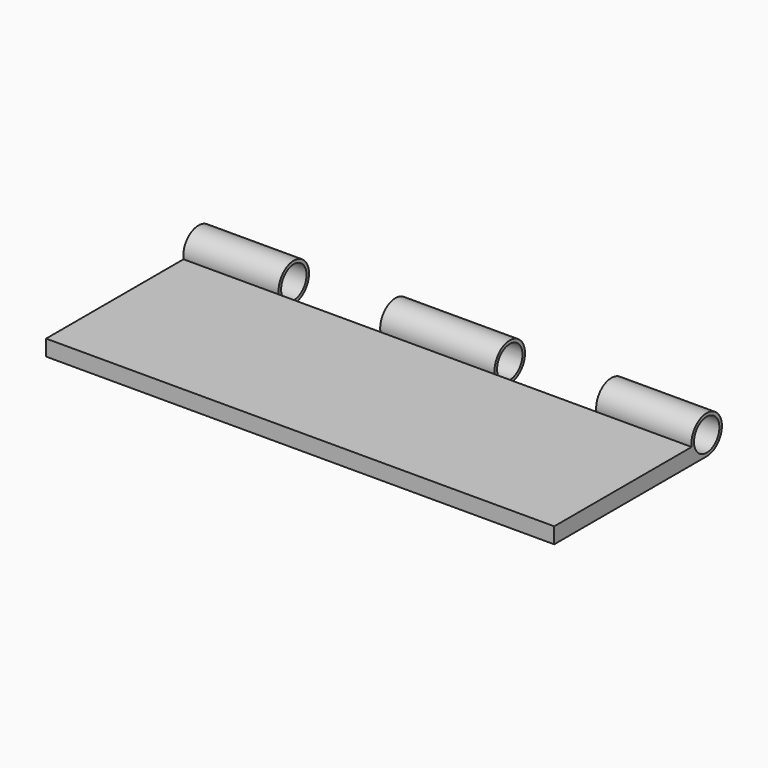
from build123d import *

# Parameters (mm, degrees)
F0_W     = 101.6
F0_H     = 38.1
F1_DEPTH = 3.175
F3_DEPTH = 254
F2_R     = 3.81
F2_R_2   = 3.175
F4_DEPTH = 101.6
F5_START = -19.05
F5_DEPTH = 20.32
F6_START = -62.23
F6_DEPTH = 20.32


with BuildPart() as f1:
    # F0 (on Top) → F1 (new body)
    with BuildSketch(Plane.XY):
        with Locations((-50.8, -19.05)):
            Rectangle(F0_W, F0_H)
    extrude(amount=F1_DEPTH)

    # F2 (on face) → F3 (cut)
    with BuildSketch(Plane(origin=(-101.6, 0, 0), x_dir=(0, -1, 0), z_dir=(-1, 0, 0))):
        with BuildLine():
            ThreePointArc((3.7567106623, 3.175), (3.7966542918, 3.4913839483), (3.81, 3.81))
            ThreePointArc((3.81, 3.81), (-2.6940768363, 6.5040768363), (0, 0))
            Line((0, 0), (0, 0.635))
            ThreePointArc((0, 0.635), (-2.2450640303, 6.0550640303), (3.175, 3.81))
            ThreePointArc((3.175, 3.81), (3.1589222858, 3.4908840456), (3.1108519733, 3.175))
            Line((3.1108519733, 3.175), (3.7567106623, 3.175))
        make_face()
        with BuildLine():
            Line((0, 0.635), (0, 0))
            ThreePointArc((0, 0), (2.4593444248, 0.9000644337), (3.7567106623, 3.175))
            Line((3.7567106623, 3.175), (3.1108519733, 3.175))
            ThreePointArc((3.1108519733, 3.175), (2.0080463142, 1.3506555752), (0, 0.635))
        make_face()
        with BuildLine():
            Line((0, 3.175), (0, 0.635))
            ThreePointArc((0, 0.635), (2.0080463142, 1.3506555752), (3.1108519733, 3.175))
            Line((3.1108519733, 3.175), (0, 3.175))
        make_face()
    extrude(amount=-F3_DEPTH, mode=Mode.SUBTRACT)

    # F2 (on face) → F4 (join, through all)
    with BuildSketch(Plane(origin=(-101.6, 0, 0), x_dir=(0, -1, 0), z_dir=(-1, 0, 0))):
        with Locations((0, 3.81)):
            Circle(F2_R)
        with Locations((0, 3.81)):
            Circle(F2_R_2, mode=Mode.SUBTRACT)
    extrude(amount=-F4_DEPTH)

    # F2 (on face) → F5 (cut)
    with BuildSketch(Plane(origin=(-101.6, 0, 0), x_dir=(0, -1, 0), z_dir=(-1, 0, 0)).offset(F5_START)):
        with Locations((0, 3.81)):
            Circle(F2_R)
        with Locations((0, 3.81)):
            Circle(F2_R_2, mode=Mode.SUBTRACT)
    extrude(amount=-F5_DEPTH, mode=Mode.SUBTRACT)

    # F2 (on face) → F6 (cut)
    with BuildSketch(Plane(origin=(-101.6, 0, 0), x_dir=(0, -1, 0), z_dir=(-1, 0, 0)).offset(F6_START)):
        with Locations((0, 3.81)):
            Circle(F2_R)
        with Locations((0, 3.81)):
            Circle(F2_R_2, mode=Mode.SUBTRACT)
    extrude(amount=-F6_DEPTH, mode=Mode.SUBTRACT)


solid = f1.part
